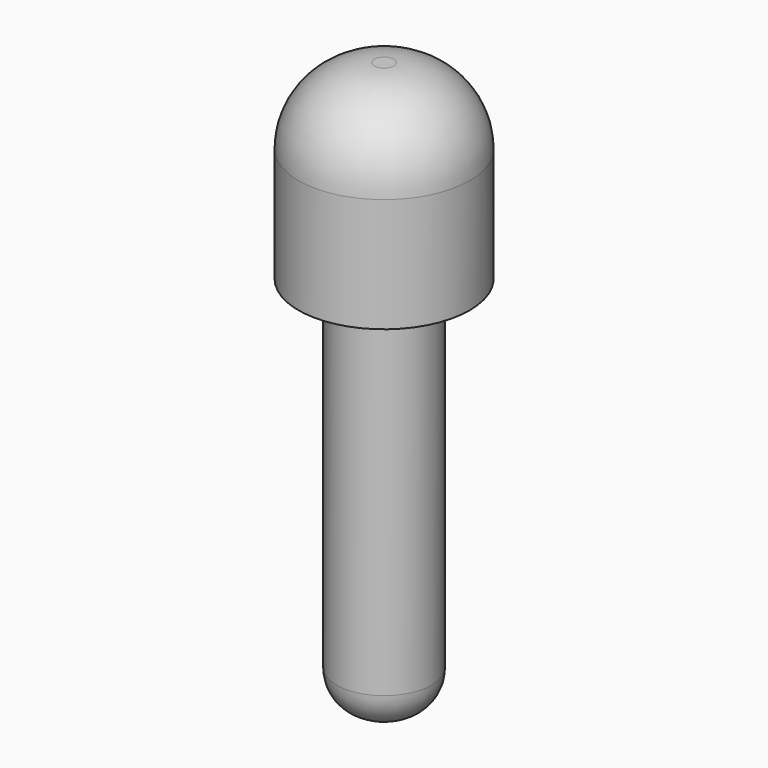
from build123d import *

# Parameters (mm, degrees)
F0_R     = 22.5
F0_R_2   = 12.5
F1_DEPTH = 30
F2_DEPTH = 100
F3_R     = 10
F4_R     = 22.5
F5_DEPTH = 20
F6_R     = 20


with BuildPart() as f1:
    # F0 (on Top) → F1 (new body)
    with BuildSketch(Plane.XY):
        Circle(F0_R)
        Circle(F0_R_2, mode=Mode.SUBTRACT)
    extrude(amount=F1_DEPTH)

    # F0 (on Top) → F2 (join)
    with BuildSketch(Plane.XY):
        Circle(F0_R_2)
    extrude(amount=-F2_DEPTH)

    # F3
    f3_edges = [f1.edges().sort_by_distance(p)[0] for p in [
        (-12.5, 0, -100),
    ]]
    fillet(f3_edges, radius=F3_R)

    # F4 (on face) → F5 (join)
    with BuildSketch(Plane.XY.offset(30)):
        Circle(F4_R)
    extrude(amount=F5_DEPTH)

    # F6
    f6_edges = [f1.edges().sort_by_distance(p)[0] for p in [
        (-22.5, 0, 50),
    ]]
    fillet(f6_edges, radius=F6_R)


solid = f1.part
